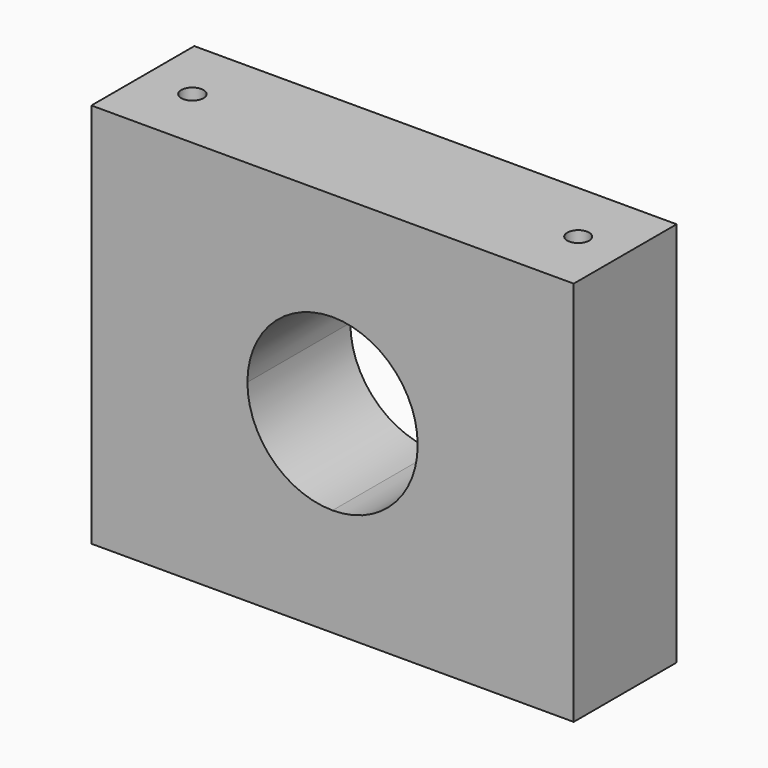
from build123d import *

# Parameters (mm, degrees)
F0_W     = 95.25
F0_H     = 76.2
F1_DEPTH = 25.4
F4_DEPTH = 25.401
F2_R     = 2.161228
F2_R_2   = 2.1916
F5_DEPTH = 76.201


with BuildPart() as f1:
    # F0 (on Front) → F1 (new body)
    with BuildSketch(Plane.XZ):
        with Locations((-9.567424, 4.836748)):
            Rectangle(F0_W, F0_H)
    extrude(amount=F1_DEPTH)

    # F3 (on face) → F4 (cut, through all)
    with BuildSketch(Plane(origin=(0, 0, 0), x_dir=(-1, 0, 0), z_dir=(0, 1, 0))):
        with BuildLine():
            ThreePointArc((26.380295, 4.836748), (21.455919, 16.725243), (9.567424, 21.649619))
            Line((9.567424, 21.649619), (9.567424, 4.836748))
            Line((9.567424, 4.836748), (26.380295, 4.836748))
        make_face()
        with BuildLine():
            Line((9.567424, 4.836748), (9.567424, 21.649619))
            ThreePointArc((9.567424, 21.649619), (-2.321071, 16.725243), (-7.245446, 4.836748))
            Line((-7.245446, 4.836748), (9.567424, 4.836748))
        make_face()
        with BuildLine():
            Line((26.380295, 4.836748), (9.567424, 4.836748))
            Line((9.567424, 4.836748), (9.567424, -11.976122))
            ThreePointArc((9.567424, -11.976122), (21.455919, -7.051746), (26.380295, 4.836748))
        make_face()
        with BuildLine():
            Line((9.567424, -11.976122), (9.567424, 4.836748))
            Line((9.567424, 4.836748), (-7.245446, 4.836748))
            ThreePointArc((-7.245446, 4.836748), (-2.321071, -7.051746), (9.567424, -11.976122))
        make_face()
    extrude(amount=-F4_DEPTH, mode=Mode.SUBTRACT)

    # F2 (on face) → F5 (cut, through all)
    with BuildSketch(Plane.XY.offset(42.936748)):
        with Locations((28.788551, -12.7)):
            Circle(F2_R)
        with Locations((-47.411449, -12.7)):
            Circle(F2_R_2)
    extrude(amount=-F5_DEPTH, mode=Mode.SUBTRACT)


solid = f1.part
